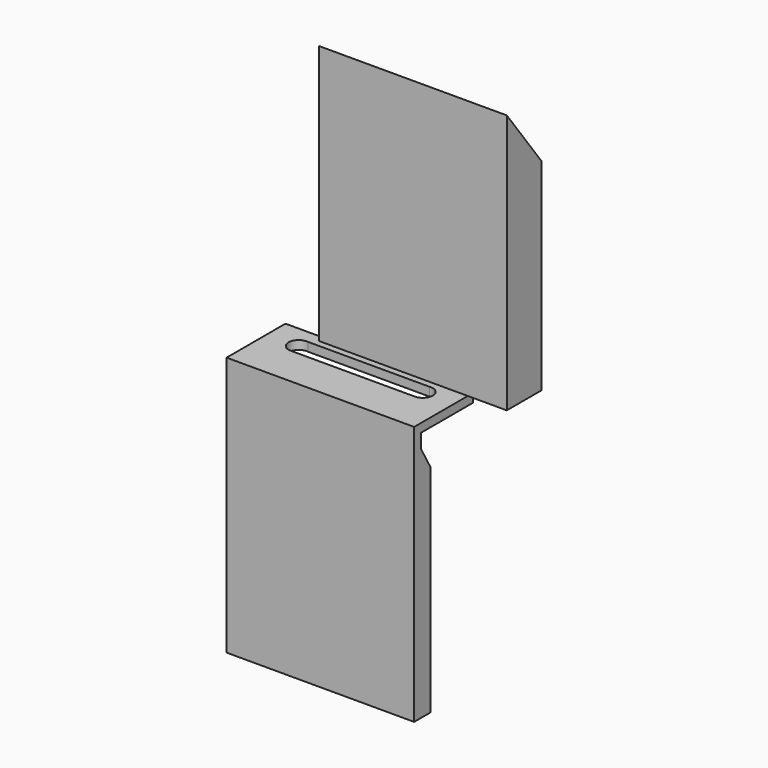
from build123d import *

# Parameters (mm, degrees)
F0_W      = 65
F0_H      = 15
F1_DEPTH  = 5
F2_W      = 65
F2_H      = 15
F2_W_2    = 61
F2_H_2    = 11
F3_DEPTH  = 65
F5_DEPTH  = 2
F7_DEPTH  = 2
F8_W      = 61
F8_H      = 2
F9_DEPTH  = 20
F10_DEPTH = 63.001
F12_DEPTH = 65
F14_D     = 7
F15_W     = 42.4820806249
F15_H     = 6.9694081779
F16_DEPTH = 90.001


with BuildPart() as f1:
    # F0 (on Top) → F1 (new body)
    with BuildSketch(Plane.XY):
        Rectangle(F0_W, F0_H)
    extrude(amount=F1_DEPTH)

    # F2 (on face) → F3 (join)
    with BuildSketch(Plane.XY.offset(5)):
        Rectangle(F2_W, F2_H)
        Rectangle(F2_W_2, F2_H_2, mode=Mode.SUBTRACT)
    extrude(amount=F3_DEPTH)

    # F4 (on face) → F5 (join)
    with BuildSketch(Plane.YZ.offset(32.5)):
        Polygon((-7.5, 90), (-7.5, 70), (7.5, 70), align=None)
    extrude(amount=-F5_DEPTH)

    # F6 (on face) → F7 (join)
    with BuildSketch(Plane(origin=(-32.5, 0, 0), x_dir=(0, -1, 0), z_dir=(-1, 0, 0))):
        Polygon((-7.5, 70), (7.5, 70), (7.5, 90), align=None)
    extrude(amount=-F7_DEPTH)

    # F8 (on face) → F9 (join)
    with BuildSketch(Plane.XY.offset(70)):
        with Locations((0, -6.5)):
            Rectangle(F8_W, F8_H)
    extrude(amount=F9_DEPTH)

    # F10 (cut, through all): a face of the model
    f10_faces = [f1.faces().sort_by_distance(p)[0] for p in [
        (30.5, -6.1666666667, 89.1111111111),
    ]]
    extrude(f10_faces, amount=-F10_DEPTH, mode=Mode.SUBTRACT)


with BuildPart() as f12:
    # F11 (on Right) → F12 (new body)
    with BuildSketch(Plane.YZ):
        Polygon((18.5, -15.8177633183), (-7, -15.8177633183), (-7, -105.8177633183), (0, -105.8177633183), (0, -30.8177633183), (-4, -23.8177633183), (-4, -18.8177633183), (18.5, -18.8177633183), align=None)
    extrude(amount=-F12_DEPTH)

    # F14 (through all)
    with Locations(Plane.XY.offset(-15.8177633183)):
        with Locations((-54, 10.5), (-11, 10.5)):
            Hole(F14_D / 2)

    # F15 (on face) → F16 (cut, through all)
    with BuildSketch(Plane.XY.offset(-15.8177633183)):
        with Locations((-32.3011059811, 10.485219539)):
            Rectangle(F15_W, F15_H)
    extrude(amount=-F16_DEPTH, mode=Mode.SUBTRACT)


solid = Compound([f1.part, f12.part])
